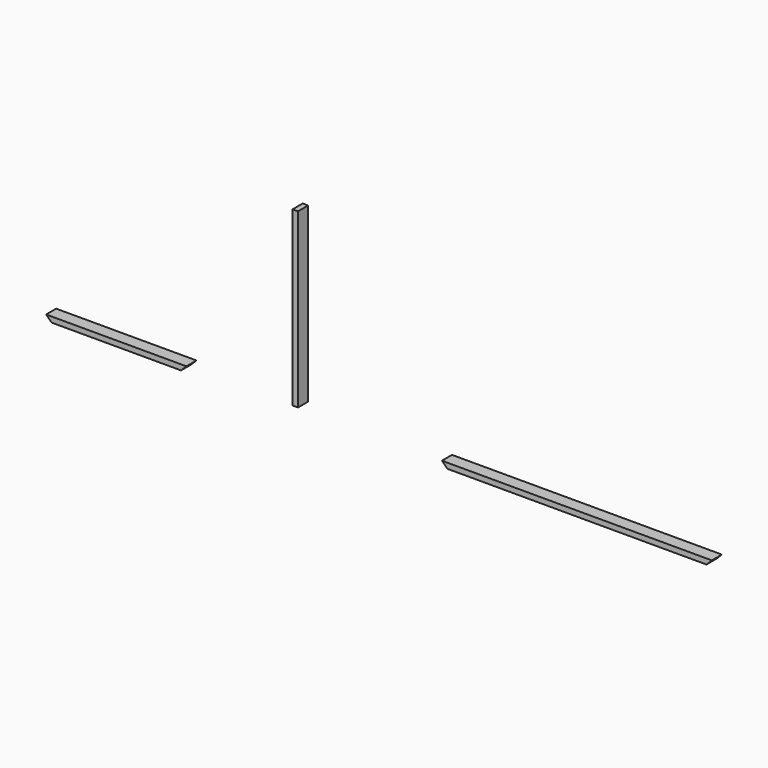
from build123d import *

# Parameters (mm, degrees)
F1_DEPTH = 88.9
F2_W     = 38.1
F2_H     = 1219.2
F3_DEPTH = 88.9
F5_DEPTH = 88.9


with BuildPart() as f1:
    # F0 (on Front) → F1 (new body)
    with BuildSketch(Plane.XZ):
        Polygon((-787.4, 0), (-1778, 0), (-1739.9, -38.1), (-825.5, -38.1), align=None)
    extrude(amount=F1_DEPTH)


with BuildPart() as f3:
    # F2 (on Front) → F3 (new body)
    with BuildSketch(Plane.XZ):
        with Locations((-19.05, 609.6)):
            Rectangle(F2_W, F2_H)
    extrude(amount=F3_DEPTH)


with BuildPart() as f5:
    # F4 (on Front) → F5 (new body)
    with BuildSketch(Plane.XZ):
        Polygon((2921, 0), (1016, 0), (1054.1, -38.1), (2882.9, -38.1), align=None)
    extrude(amount=F5_DEPTH)


solid = Compound([f1.part, f3.part, f5.part])
